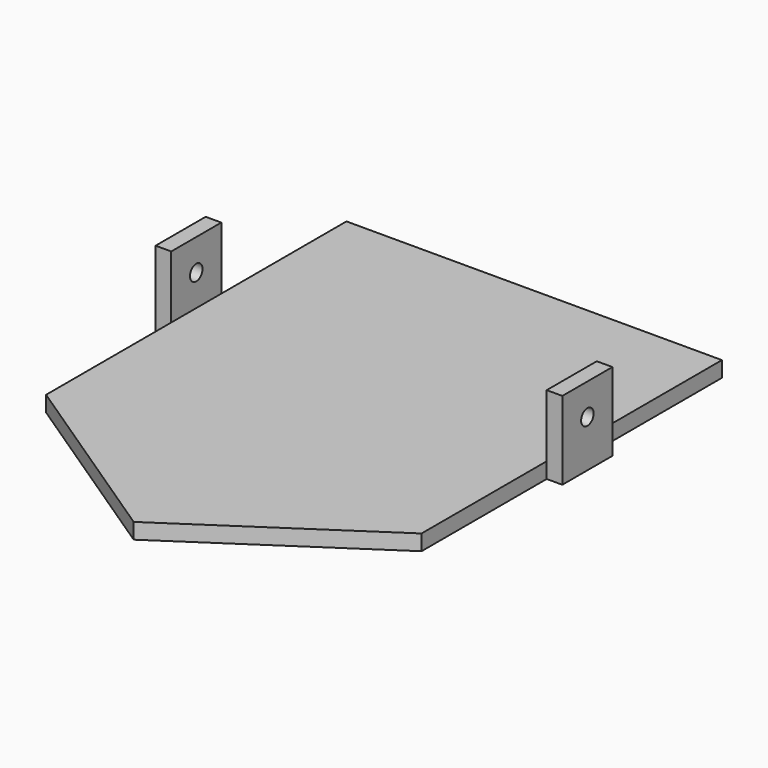
from build123d import *

# Parameters (mm, degrees)
F1_DEPTH  = 3.175
F2_W      = 12.7
F2_H      = 12.7
F2_R      = 1.5875
F4_DEPTH  = 3.175
F4_FACE_W = 3.175
F4_FACE_H = 12.7
F5_DEPTH  = 3.175
F3_W      = 12.7
F3_H      = 12.7
F3_R      = 1.5875
F6_DEPTH  = 3.175
F6_FACE_W = 3.175
F6_FACE_H = 12.7
F7_DEPTH  = 3.175


with BuildPart() as f1:
    # F0 (on Top) → F1 (new body)
    with BuildSketch(Plane.XY):
        Polygon((29.825334, 66.574713), (-46.374666, 66.574713), (-46.374666, -9.625287), (-8.274666, -35.025287), (29.825334, -9.625287), align=None)
    extrude(amount=F1_DEPTH)



with BuildPart() as f4:
    # F2 (on face) → F4 (new body)
    with BuildSketch(Plane(origin=(-46.374666, 0, 0), x_dir=(0, -1, 0), z_dir=(-1, 0, 0))):
        with Locations((-28.474713, 9.525)):
            Rectangle(F2_W, F2_H)
        with Locations((-28.474713, 9.525)):
            Circle(F2_R, mode=Mode.SUBTRACT)
    extrude(amount=F4_DEPTH)


with BuildPart() as f1_1:
    add(f1.part)

    add(f4.part)  # F5 merges F4
    # F4_face (on face) → F5 (join)
    with BuildSketch(Plane(origin=(-47.962166, 28.474713, 3.175), x_dir=(1, 0, 0), z_dir=(0, 0, -1))):
        Rectangle(F4_FACE_W, F4_FACE_H)
    extrude(amount=F5_DEPTH)



with BuildPart() as f6:
    # F3 (on face) → F6 (new body)
    with BuildSketch(Plane.YZ.offset(29.825334)):
        with Locations((28.474713, 9.525)):
            Rectangle(F3_W, F3_H)
        with Locations((28.474713, 9.525)):
            Circle(F3_R, mode=Mode.SUBTRACT)
    extrude(amount=F6_DEPTH)


with BuildPart() as f1_2:
    add(f1_1.part)

    add(f6.part)  # F7 merges F6
    # F6_face (on face) → F7 (join)
    with BuildSketch(Plane(origin=(31.412834, 28.474713, 3.175), x_dir=(1, 0, 0), z_dir=(0, 0, -1))):
        Rectangle(F6_FACE_W, F6_FACE_H)
    extrude(amount=F7_DEPTH)


solid = f1_2.part
